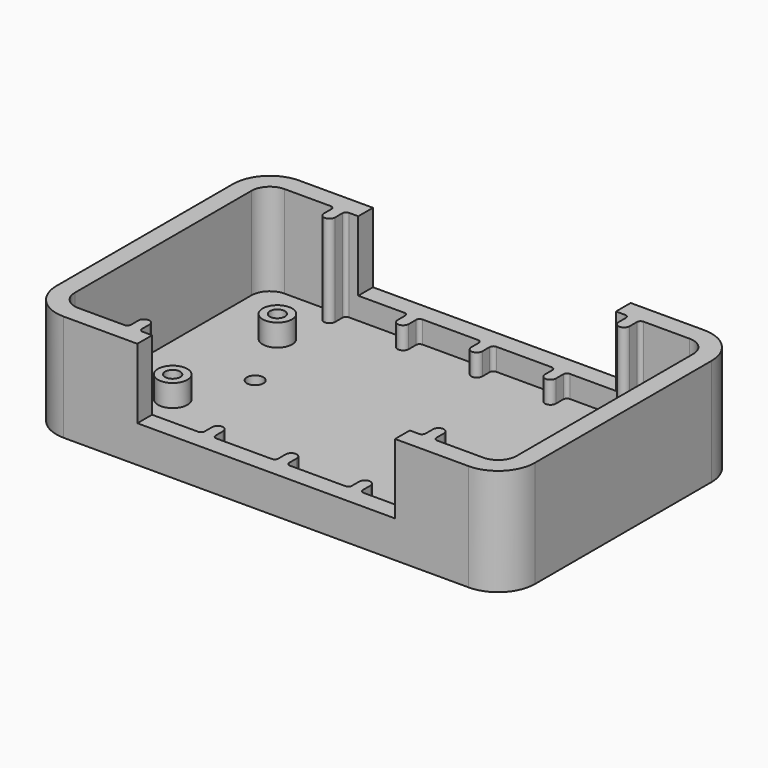
from build123d import *

# Parameters (mm, degrees)
F1_DEPTH      = 25
F0_R          = 4
F0_R_2        = 2.25
F0_R_3        = 2.05
F2_DEPTH      = 4
F3_DEPTH      = 6
F4_DEPTH      = 6
F4_DEPTH_BACK = 4
F5_R          = 10
F6_R          = 5


with BuildPart() as f1:
    # F0 (on Top) → F1 (new body)
    with BuildSketch(Plane.XY):
        with BuildLine():
            ThreePointArc((-38.5, 34), (-38.2071067812, 34.7071067812), (-37.5, 35))
            Line((-37.5, 35), (-35, 35))
            Line((-35, 35), (-35, 40))
            Line((-35, 40), (-65, 40))
            Line((-65, 40), (-65, -40))
            Line((-65, -40), (-35, -40))
            Line((-35, -40), (-35, -35))
            Line((-35, -35), (-37.5, -35))
            ThreePointArc((-37.5, -35), (-38.2071067812, -34.7071067812), (-38.5, -34))
            Line((-38.5, -34), (-38.5, -31.5))
            ThreePointArc((-38.5, -31.5), (-40, -30), (-41.5, -31.5))
            Line((-41.5, -31.5), (-41.5, -34))
            ThreePointArc((-41.5, -34), (-41.7928932188, -34.7071067812), (-42.5, -35))
            Line((-42.5, -35), (-60, -35))
            Line((-60, -35), (-60, 35))
            Line((-60, 35), (-42.5, 35))
            ThreePointArc((-42.5, 35), (-41.7928932188, 34.7071067812), (-41.5, 34))
            Line((-41.5, 34), (-41.5, 31.5))
            ThreePointArc((-41.5, 31.5), (-40, 30), (-38.5, 31.5))
            Line((-38.5, 31.5), (-38.5, 34))
        make_face()
    extrude(amount=F1_DEPTH)



with BuildPart() as f1b:
    # F0 (on Top) → F1, piece 2 (new body)
    with BuildSketch(Plane.XY):
        with BuildLine():
            Line((65, 40), (35, 40))
            Line((35, 40), (35, 35))
            Line((35, 35), (37.5, 35))
            ThreePointArc((37.5, 35), (38.2071067812, 34.7071067812), (38.5, 34))
            Line((38.5, 34), (38.5, 31.5))
            ThreePointArc((38.5, 31.5), (40, 30), (41.5, 31.5))
            Line((41.5, 31.5), (41.5, 34))
            ThreePointArc((41.5, 34), (41.7928932188, 34.7071067812), (42.5, 35))
            Line((42.5, 35), (60, 35))
            Line((60, 35), (60, -35))
            Line((60, -35), (42.5, -35))
            ThreePointArc((42.5, -35), (41.7928932188, -34.7071067812), (41.5, -34))
            Line((41.5, -34), (41.5, -31.5))
            ThreePointArc((41.5, -31.5), (40, -30), (38.5, -31.5))
            Line((38.5, -31.5), (38.5, -34))
            ThreePointArc((38.5, -34), (38.2071067812, -34.7071067812), (37.5, -35))
            Line((37.5, -35), (35, -35))
            Line((35, -35), (35, -40))
            Line((35, -40), (65, -40))
            Line((65, -40), (65, 40))
        make_face()
    extrude(amount=F1_DEPTH)


with BuildPart() as f1_1:
    add(f1.part)

    add(f1b.part)  # F2 merges F1b
    # F0 (on Top) → F2 (join)
    with BuildSketch(Plane.XY):
        with BuildLine():
            Line((-35, 35), (-37.5, 35))
            ThreePointArc((-37.5, 35), (-38.2071067812, 34.7071067812), (-38.5, 34))
            Line((-38.5, 34), (-38.5, 31.5))
            ThreePointArc((-38.5, 31.5), (-40, 30), (-41.5, 31.5))
            Line((-41.5, 31.5), (-41.5, 34))
            ThreePointArc((-41.5, 34), (-41.7928932188, 34.7071067812), (-42.5, 35))
            Line((-42.5, 35), (-60, 35))
            Line((-60, 35), (-60, -35))
            Line((-60, -35), (-42.5, -35))
            ThreePointArc((-42.5, -35), (-41.7928932188, -34.7071067812), (-41.5, -34))
            Line((-41.5, -34), (-41.5, -31.5))
            ThreePointArc((-41.5, -31.5), (-40, -30), (-38.5, -31.5))
            Line((-38.5, -31.5), (-38.5, -34))
            ThreePointArc((-38.5, -34), (-38.2071067812, -34.7071067812), (-37.5, -35))
            Line((-37.5, -35), (-35, -35))
            Line((-35, -35), (-22.5, -35))
            ThreePointArc((-22.5, -35), (-21.7928932188, -34.7071067812), (-21.5, -34))
            Line((-21.5, -34), (-21.5, -31.5))
            ThreePointArc((-21.5, -31.5), (-20, -30), (-18.5, -31.5))
            Line((-18.5, -31.5), (-18.5, -34))
            ThreePointArc((-18.5, -34), (-18.2071067812, -34.7071067812), (-17.5, -35))
            Line((-17.5, -35), (-2.5, -35))
            ThreePointArc((-2.5, -35), (-1.7928932188, -34.7071067812), (-1.5, -34))
            Line((-1.5, -34), (-1.5, -31.5))
            ThreePointArc((-1.5, -31.5), (0, -30), (1.5, -31.5))
            Line((1.5, -31.5), (1.5, -34))
            ThreePointArc((1.5, -34), (1.7928932188, -34.7071067812), (2.5, -35))
            Line((2.5, -35), (17.5, -35))
            ThreePointArc((17.5, -35), (18.2071067812, -34.7071067812), (18.5, -34))
            Line((18.5, -34), (18.5, -31.5))
            ThreePointArc((18.5, -31.5), (20, -30), (21.5, -31.5))
            Line((21.5, -31.5), (21.5, -34))
            ThreePointArc((21.5, -34), (21.7928932188, -34.7071067812), (22.5, -35))
            Line((22.5, -35), (35, -35))
            Line((35, -35), (37.5, -35))
            ThreePointArc((37.5, -35), (38.2071067812, -34.7071067812), (38.5, -34))
            Line((38.5, -34), (38.5, -31.5))
            ThreePointArc((38.5, -31.5), (40, -30), (41.5, -31.5))
            Line((41.5, -31.5), (41.5, -34))
            ThreePointArc((41.5, -34), (41.7928932188, -34.7071067812), (42.5, -35))
            Line((42.5, -35), (60, -35))
            Line((60, -35), (60, 35))
            Line((60, 35), (42.5, 35))
            ThreePointArc((42.5, 35), (41.7928932188, 34.7071067812), (41.5, 34))
            Line((41.5, 34), (41.5, 31.5))
            ThreePointArc((41.5, 31.5), (40, 30), (38.5, 31.5))
            Line((38.5, 31.5), (38.5, 34))
            ThreePointArc((38.5, 34), (38.2071067812, 34.7071067812), (37.5, 35))
            Line((37.5, 35), (35, 35))
            Line((35, 35), (22.5, 35))
            ThreePointArc((22.5, 35), (21.7928932188, 34.7071067812), (21.5, 34))
            Line((21.5, 34), (21.5, 31.5))
            ThreePointArc((21.5, 31.5), (20, 30), (18.5, 31.5))
            Line((18.5, 31.5), (18.5, 34))
            ThreePointArc((18.5, 34), (18.2071067812, 34.7071067812), (17.5, 35))
            Line((17.5, 35), (2.5, 35))
            ThreePointArc((2.5, 35), (1.7928932188, 34.7071067812), (1.5, 34))
            Line((1.5, 34), (1.5, 31.5))
            ThreePointArc((1.5, 31.5), (0, 30), (-1.5, 31.5))
            Line((-1.5, 31.5), (-1.5, 34))
            ThreePointArc((-1.5, 34), (-1.7928932188, 34.7071067812), (-2.5, 35))
            Line((-2.5, 35), (-17.5, 35))
            ThreePointArc((-17.5, 35), (-18.2071067812, 34.7071067812), (-18.5, 34))
            Line((-18.5, 34), (-18.5, 31.5))
            ThreePointArc((-18.5, 31.5), (-20, 30), (-21.5, 31.5))
            Line((-21.5, 31.5), (-21.5, 34))
            ThreePointArc((-21.5, 34), (-21.7928932188, 34.7071067812), (-22.5, 35))
            Line((-22.5, 35), (-35, 35))
        make_face()
        with Locations((-43.18, -17.78)):
            Circle(F0_R, mode=Mode.SUBTRACT)
        with Locations((43.18, -17.78)):
            Circle(F0_R, mode=Mode.SUBTRACT)
        with Locations((-35, 0)):
            Circle(F0_R_2, mode=Mode.SUBTRACT)
        with Locations((-43.18, 17.78)):
            Circle(F0_R, mode=Mode.SUBTRACT)
        with Locations((35, 0)):
            Circle(F0_R_2, mode=Mode.SUBTRACT)
        with Locations((43.18, 17.78)):
            Circle(F0_R, mode=Mode.SUBTRACT)
        with BuildLine():
            ThreePointArc((-38.5, 34), (-38.2071067812, 34.7071067812), (-37.5, 35))
            Line((-37.5, 35), (-35, 35))
            Line((-35, 35), (-35, 40))
            Line((-35, 40), (-65, 40))
            Line((-65, 40), (-65, -40))
            Line((-65, -40), (-35, -40))
            Line((-35, -40), (-35, -35))
            Line((-35, -35), (-37.5, -35))
            ThreePointArc((-37.5, -35), (-38.2071067812, -34.7071067812), (-38.5, -34))
            Line((-38.5, -34), (-38.5, -31.5))
            ThreePointArc((-38.5, -31.5), (-40, -30), (-41.5, -31.5))
            Line((-41.5, -31.5), (-41.5, -34))
            ThreePointArc((-41.5, -34), (-41.7928932188, -34.7071067812), (-42.5, -35))
            Line((-42.5, -35), (-60, -35))
            Line((-60, -35), (-60, 35))
            Line((-60, 35), (-42.5, 35))
            ThreePointArc((-42.5, 35), (-41.7928932188, 34.7071067812), (-41.5, 34))
            Line((-41.5, 34), (-41.5, 31.5))
            ThreePointArc((-41.5, 31.5), (-40, 30), (-38.5, 31.5))
            Line((-38.5, 31.5), (-38.5, 34))
        make_face()
        with BuildLine():
            Line((-35, 40), (-35, 35))
            Line((-35, 35), (-22.5, 35))
            ThreePointArc((-22.5, 35), (-21.7928932188, 34.7071067812), (-21.5, 34))
            Line((-21.5, 34), (-21.5, 31.5))
            ThreePointArc((-21.5, 31.5), (-20, 30), (-18.5, 31.5))
            Line((-18.5, 31.5), (-18.5, 34))
            ThreePointArc((-18.5, 34), (-18.2071067812, 34.7071067812), (-17.5, 35))
            Line((-17.5, 35), (-2.5, 35))
            ThreePointArc((-2.5, 35), (-1.7928932188, 34.7071067812), (-1.5, 34))
            Line((-1.5, 34), (-1.5, 31.5))
            ThreePointArc((-1.5, 31.5), (0, 30), (1.5, 31.5))
            Line((1.5, 31.5), (1.5, 34))
            ThreePointArc((1.5, 34), (1.7928932188, 34.7071067812), (2.5, 35))
            Line((2.5, 35), (17.5, 35))
            ThreePointArc((17.5, 35), (18.2071067812, 34.7071067812), (18.5, 34))
            Line((18.5, 34), (18.5, 31.5))
            ThreePointArc((18.5, 31.5), (20, 30), (21.5, 31.5))
            Line((21.5, 31.5), (21.5, 34))
            ThreePointArc((21.5, 34), (21.7928932188, 34.7071067812), (22.5, 35))
            Line((22.5, 35), (35, 35))
            Line((35, 35), (35, 40))
            Line((35, 40), (-35, 40))
        make_face()
        with Locations((43.18, 17.78)):
            Circle(F0_R)
        with Locations((43.18, 17.78)):
            Circle(F0_R_3, mode=Mode.SUBTRACT)
        with Locations((-43.18, -17.78)):
            Circle(F0_R)
        with Locations((-43.18, -17.78)):
            Circle(F0_R_3, mode=Mode.SUBTRACT)
        with Locations((43.18, -17.78)):
            Circle(F0_R)
        with Locations((43.18, -17.78)):
            Circle(F0_R_3, mode=Mode.SUBTRACT)
        with Locations((-43.18, 17.78)):
            Circle(F0_R)
        with Locations((-43.18, 17.78)):
            Circle(F0_R_3, mode=Mode.SUBTRACT)
        with Locations((-43.18, -17.78)):
            Circle(F0_R_3)
        with Locations((43.18, -17.78)):
            Circle(F0_R_3)
        with Locations((43.18, 17.78)):
            Circle(F0_R_3)
        with Locations((-43.18, 17.78)):
            Circle(F0_R_3)
    extrude(amount=-F2_DEPTH)

    # F0 (on Top) → F3 (join)
    with BuildSketch(Plane.XY):
        with Locations((-43.18, 17.78)):
            Circle(F0_R)
        with Locations((-43.18, 17.78)):
            Circle(F0_R_3, mode=Mode.SUBTRACT)
        with Locations((43.18, 17.78)):
            Circle(F0_R)
        with Locations((43.18, 17.78)):
            Circle(F0_R_3, mode=Mode.SUBTRACT)
        with Locations((-43.18, -17.78)):
            Circle(F0_R)
        with Locations((-43.18, -17.78)):
            Circle(F0_R_3, mode=Mode.SUBTRACT)
        with Locations((43.18, -17.78)):
            Circle(F0_R)
        with Locations((43.18, -17.78)):
            Circle(F0_R_3, mode=Mode.SUBTRACT)
    extrude(amount=F3_DEPTH)

    # F0 (on Top) → F4 (join, two sides)
    with BuildSketch(Plane.XY) as f4_sk:
        with BuildLine():
            Line((-35, -35), (-35, -40))
            Line((-35, -40), (35, -40))
            Line((35, -40), (35, -35))
            Line((35, -35), (22.5, -35))
            ThreePointArc((22.5, -35), (21.7928932188, -34.7071067812), (21.5, -34))
            Line((21.5, -34), (21.5, -31.5))
            ThreePointArc((21.5, -31.5), (20, -30), (18.5, -31.5))
            Line((18.5, -31.5), (18.5, -34))
            ThreePointArc((18.5, -34), (18.2071067812, -34.7071067812), (17.5, -35))
            Line((17.5, -35), (2.5, -35))
            ThreePointArc((2.5, -35), (1.7928932188, -34.7071067812), (1.5, -34))
            Line((1.5, -34), (1.5, -31.5))
            ThreePointArc((1.5, -31.5), (0, -30), (-1.5, -31.5))
            Line((-1.5, -31.5), (-1.5, -34))
            ThreePointArc((-1.5, -34), (-1.7928932188, -34.7071067812), (-2.5, -35))
            Line((-2.5, -35), (-17.5, -35))
            ThreePointArc((-17.5, -35), (-18.2071067812, -34.7071067812), (-18.5, -34))
            Line((-18.5, -34), (-18.5, -31.5))
            ThreePointArc((-18.5, -31.5), (-20, -30), (-21.5, -31.5))
            Line((-21.5, -31.5), (-21.5, -34))
            ThreePointArc((-21.5, -34), (-21.7928932188, -34.7071067812), (-22.5, -35))
            Line((-22.5, -35), (-35, -35))
        make_face()
        with BuildLine():
            Line((65, 40), (35, 40))
            Line((35, 40), (35, 35))
            Line((35, 35), (37.5, 35))
            ThreePointArc((37.5, 35), (38.2071067812, 34.7071067812), (38.5, 34))
            Line((38.5, 34), (38.5, 31.5))
            ThreePointArc((38.5, 31.5), (40, 30), (41.5, 31.5))
            Line((41.5, 31.5), (41.5, 34))
            ThreePointArc((41.5, 34), (41.7928932188, 34.7071067812), (42.5, 35))
            Line((42.5, 35), (60, 35))
            Line((60, 35), (60, -35))
            Line((60, -35), (42.5, -35))
            ThreePointArc((42.5, -35), (41.7928932188, -34.7071067812), (41.5, -34))
            Line((41.5, -34), (41.5, -31.5))
            ThreePointArc((41.5, -31.5), (40, -30), (38.5, -31.5))
            Line((38.5, -31.5), (38.5, -34))
            ThreePointArc((38.5, -34), (38.2071067812, -34.7071067812), (37.5, -35))
            Line((37.5, -35), (35, -35))
            Line((35, -35), (35, -40))
            Line((35, -40), (65, -40))
            Line((65, -40), (65, 40))
        make_face()
        with BuildLine():
            Line((-35, 40), (-35, 35))
            Line((-35, 35), (-22.5, 35))
            ThreePointArc((-22.5, 35), (-21.7928932188, 34.7071067812), (-21.5, 34))
            Line((-21.5, 34), (-21.5, 31.5))
            ThreePointArc((-21.5, 31.5), (-20, 30), (-18.5, 31.5))
            Line((-18.5, 31.5), (-18.5, 34))
            ThreePointArc((-18.5, 34), (-18.2071067812, 34.7071067812), (-17.5, 35))
            Line((-17.5, 35), (-2.5, 35))
            ThreePointArc((-2.5, 35), (-1.7928932188, 34.7071067812), (-1.5, 34))
            Line((-1.5, 34), (-1.5, 31.5))
            ThreePointArc((-1.5, 31.5), (0, 30), (1.5, 31.5))
            Line((1.5, 31.5), (1.5, 34))
            ThreePointArc((1.5, 34), (1.7928932188, 34.7071067812), (2.5, 35))
            Line((2.5, 35), (17.5, 35))
            ThreePointArc((17.5, 35), (18.2071067812, 34.7071067812), (18.5, 34))
            Line((18.5, 34), (18.5, 31.5))
            ThreePointArc((18.5, 31.5), (20, 30), (21.5, 31.5))
            Line((21.5, 31.5), (21.5, 34))
            ThreePointArc((21.5, 34), (21.7928932188, 34.7071067812), (22.5, 35))
            Line((22.5, 35), (35, 35))
            Line((35, 35), (35, 40))
            Line((35, 40), (-35, 40))
        make_face()
    extrude(amount=F4_DEPTH)
    extrude(f4_sk.sketch, amount=-F4_DEPTH_BACK)

    # F5
    f5_edges = [f1_1.edges().sort_by_distance(p)[0] for p in [
        (-65, -40, 10.5),
        (-65, 40, 10.5),
        (65, -40, 10.5),
        (65, 40, 10.5),
    ]]
    fillet(f5_edges, radius=F5_R)

    # F6
    f6_edges = [f1_1.edges().sort_by_distance(p)[0] for p in [
        (-60, 35, 12.5),
        (60, 35, 12.5),
        (60, -35, 12.5),
        (-60, -35, 12.5),
    ]]
    fillet(f6_edges, radius=F6_R)


solid = f1_1.part
